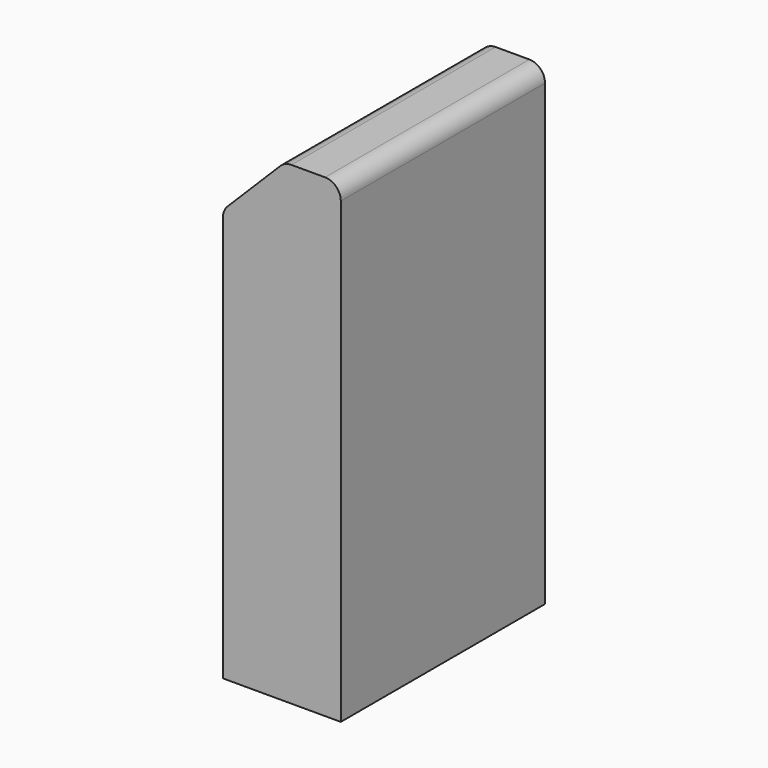
from build123d import *

# Parameters (mm, degrees)
F1_DEPTH       = 82.55
F4_D           = 8.73125
F4_DEPTH       = 25.4
F4_TIP         = 2.6231321399
F4_ON_F3_D     = 8.73125
F4_ON_F3_DEPTH = 25.4
F4_ON_F3_TIP   = 2.6231321399
F5_R           = 5.08


with BuildPart() as f1:
    # F0 (on Front) → F1 (new body)
    with BuildSketch(Plane.XZ):
        Polygon((-38.1, 0), (0, 0), (0, 153.3652), (-18.0848, 153.3652), (-38.1, 133.35), align=None)
    extrude(amount=F1_DEPTH)

    # F4
    with Locations(Plane(origin=(-85.725, 0, 85.725), x_dir=(0, -1, 0), z_dir=(-0.7071067812, 0, 0.7071067812))):
        with Locations((73.025, 81.5048045548), (9.525, 81.5048045548)):
            Hole(F4_D / 2, depth=F4_DEPTH)
            with Locations((0, 0, -(F4_DEPTH + F4_TIP / 2))):  # 118° drill point
                Cone(0, F4_D / 2, F4_TIP, mode=Mode.SUBTRACT)

    # F4 on F3
    with Locations(Plane(origin=(0, 0, 0), x_dir=(1, 0, 0), z_dir=(0, 0, -1))):
        with Locations((-19.05, 73.025), (-19.05, 9.525)):
            Hole(F4_ON_F3_D / 2, depth=F4_ON_F3_DEPTH)
            with Locations((0, 0, -(F4_ON_F3_DEPTH + F4_ON_F3_TIP / 2))):  # 118° drill point
                Cone(0, F4_ON_F3_D / 2, F4_ON_F3_TIP, mode=Mode.SUBTRACT)

    # F5
    f5_edges = [f1.edges().sort_by_distance(p)[0] for p in [
        (-38.1, -41.275, 133.35),
        (-18.0848, -41.275, 153.3652),
        (0, -41.275, 153.3652),
    ]]
    fillet(f5_edges, radius=F5_R)


solid = f1.part
